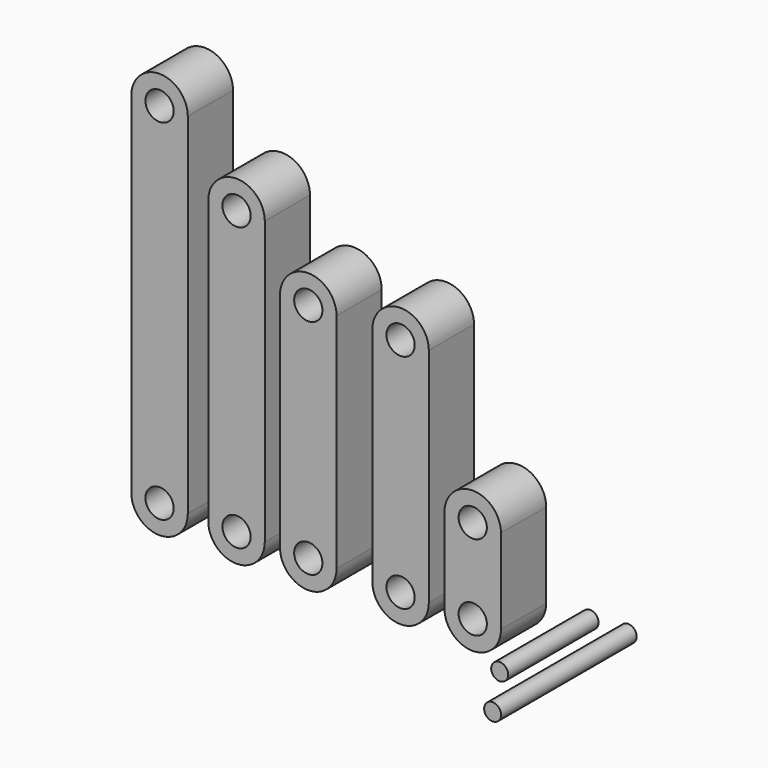
from build123d import *

# Parameters (mm, degrees)
F1_R      = 2.5
F2_DEPTH  = 10
F3_R      = 2.5
F4_DEPTH  = 10
F5_R      = 2.5
F6_DEPTH  = 10
F7_R      = 2.5
F8_DEPTH  = 10
F9_R      = 2.5
F10_DEPTH = 10
F11_R     = 1.5
F12_DEPTH = 20
F13_R     = 1.5
F14_DEPTH = 30


with BuildPart() as f2:
    # F1 (on Front) → F2 (new body)
    with BuildSketch(Plane.XZ):
        with BuildLine():
            Line((-17.7723604936, 15), (-17.7723604936, 0))
            ThreePointArc((-17.7723604936, 0), (-12.7723604936, -5), (-7.7723604936, 0))
            Line((-7.7723604936, 0), (-7.7723604936, 15))
            ThreePointArc((-7.7723604936, 15), (-12.7723604936, 20), (-17.7723604936, 15))
        make_face()
        with Locations((-12.7723604936, 0)):
            Circle(F1_R, mode=Mode.SUBTRACT)
        with Locations((-12.7723604936, 15)):
            Circle(F1_R, mode=Mode.SUBTRACT)
    extrude(amount=F2_DEPTH)


with BuildPart() as f4:
    # F3 (on Front) → F4 (new body)
    with BuildSketch(Plane.XZ):
        with BuildLine():
            Line((-30.5428169801, 39.3), (-30.5428169801, 0))
            ThreePointArc((-30.5428169801, 0), (-25.5428169801, -5), (-20.5428169801, 0))
            Line((-20.5428169801, 0), (-20.5428169801, 39.3))
            ThreePointArc((-20.5428169801, 39.3), (-25.5428169801, 44.3), (-30.5428169801, 39.3))
        make_face()
        with Locations((-25.5428169801, 0)):
            Circle(F3_R, mode=Mode.SUBTRACT)
        with Locations((-25.5428169801, 39.3)):
            Circle(F3_R, mode=Mode.SUBTRACT)
    extrude(amount=F4_DEPTH)


with BuildPart() as f6:
    # F5 (on Front) → F6 (new body)
    with BuildSketch(Plane.XZ):
        with BuildLine():
            Line((-46.8750046201, 39.4), (-46.8750046201, 0))
            ThreePointArc((-46.8750046201, 0), (-41.8750046201, -5), (-36.8750046201, 0))
            Line((-36.8750046201, 0), (-36.8750046201, 39.4))
            ThreePointArc((-36.8750046201, 39.4), (-41.8750046201, 44.4), (-46.8750046201, 39.4))
        make_face()
        with Locations((-41.8750046201, 0)):
            Circle(F5_R, mode=Mode.SUBTRACT)
        with Locations((-41.8750046201, 39.4)):
            Circle(F5_R, mode=Mode.SUBTRACT)
    extrude(amount=F6_DEPTH)


with BuildPart() as f8:
    # F7 (on Front) → F8 (new body)
    with BuildSketch(Plane.XZ):
        with BuildLine():
            Line((-59.5748284761, 50), (-59.5748284761, 0))
            ThreePointArc((-59.5748284761, 0), (-54.5748284761, -5), (-49.5748284761, 0))
            Line((-49.5748284761, 0), (-49.5748284761, 50))
            ThreePointArc((-49.5748284761, 50), (-54.5748284761, 55), (-59.5748284761, 50))
        make_face()
        with Locations((-54.5748284761, 0)):
            Circle(F7_R, mode=Mode.SUBTRACT)
        with Locations((-54.5748284761, 50)):
            Circle(F7_R, mode=Mode.SUBTRACT)
    extrude(amount=F8_DEPTH)


with BuildPart() as f10:
    # F9 (on Front) → F10 (new body)
    with BuildSketch(Plane.XZ):
        with BuildLine():
            Line((-73.1991949677, 61.9), (-73.1991949677, 0))
            ThreePointArc((-73.1991949677, 0), (-68.1991949677, -5), (-63.1991949677, 0))
            Line((-63.1991949677, 0), (-63.1991949677, 61.9))
            ThreePointArc((-63.1991949677, 61.9), (-68.1991949677, 66.9), (-73.1991949677, 61.9))
        make_face()
        with Locations((-68.1991949677, 0)):
            Circle(F9_R, mode=Mode.SUBTRACT)
        with Locations((-68.1991949677, 61.9)):
            Circle(F9_R, mode=Mode.SUBTRACT)
    extrude(amount=F10_DEPTH)


with BuildPart() as f12:
    # F11 (on Front) → F12 (new body)
    with BuildSketch(Plane.XZ):
        Circle(F11_R)
    extrude(amount=F12_DEPTH)


with BuildPart() as f14:
    # F13 (on Front) → F14 (new body)
    with BuildSketch(Plane.XZ):
        with Locations((6.7503562369, 0)):
            Circle(F13_R)
    extrude(amount=F14_DEPTH)


solid = Compound([f2.part, f4.part, f6.part, f8.part, f10.part, f12.part, f14.part])
